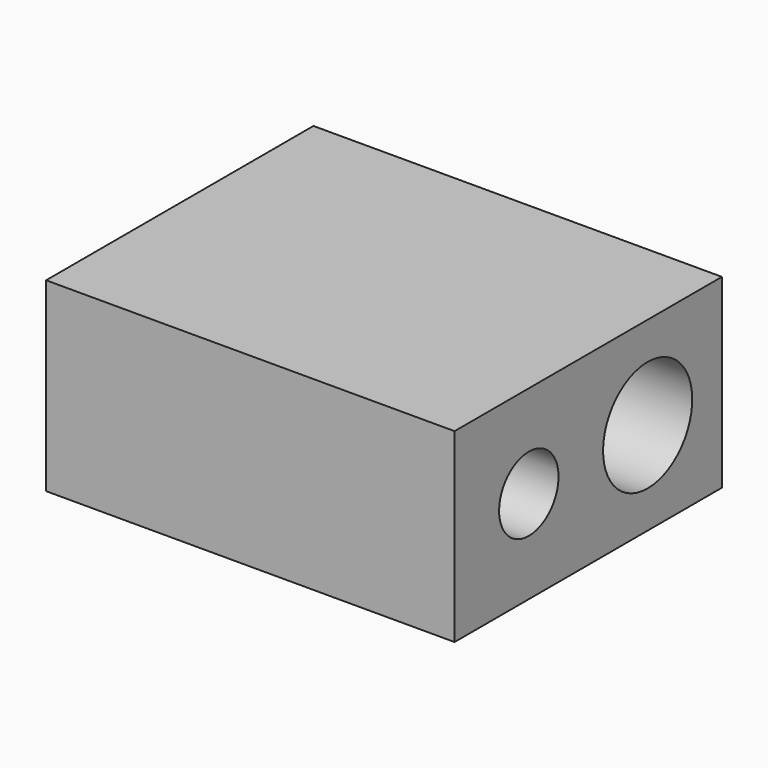
from build123d import *

# Parameters (mm, degrees)
CYLINDER006_R     = 3.5
CYLINDER006_DEPTH = 16
CYLINDER007_R     = 3
CYLINDER007_DEPTH = 9
CYLINDER008_R     = 1
CYLINDER008_DEPTH = 13
CYLINDER009_R     = 1
CYLINDER009_DEPTH = 13
CYLINDER003_R     = 2
CYLINDER003_DEPTH = 6
BOX003_W          = 22
BOX003_H          = 18
BOX003_DEPTH      = 10


with BuildPart() as cylinder006:
    # Cylinder006 → Cylinder006 (new body)
    with BuildSketch(Plane(origin=(0, 5, 5), x_dir=(0, 0, -1), z_dir=(1, 0, 0))):
        Circle(CYLINDER006_R)
    extrude(amount=CYLINDER006_DEPTH)


with BuildPart() as cylinder007:
    # Cylinder007 → Cylinder007 (new body)
    with BuildSketch(Plane(origin=(13, 13, 5), x_dir=(0, 0, -1), z_dir=(1, 0, 0))):
        Circle(CYLINDER007_R)
    extrude(amount=CYLINDER007_DEPTH)


with BuildPart() as cylinder008:
    # Cylinder008 → Cylinder008 (new body)
    with BuildSketch(Plane(origin=(0, 11, 5), x_dir=(0, 0, -1), z_dir=(1, 0, 0))):
        Circle(CYLINDER008_R)
    extrude(amount=CYLINDER008_DEPTH)


with BuildPart() as cylinder009:
    # Cylinder009 → Cylinder009 (new body)
    with BuildSketch(Plane(origin=(0, 15, 5), x_dir=(0, 0, -1), z_dir=(1, 0, 0))):
        Circle(CYLINDER009_R)
    extrude(amount=CYLINDER009_DEPTH)


with BuildPart() as body:
    # Cylinder003 → Cylinder003 (new body)
    with BuildSketch(Plane(origin=(16, 5, 5), x_dir=(0, 0, -1), z_dir=(1, 0, 0))):
        Circle(CYLINDER003_R)
    extrude(amount=CYLINDER003_DEPTH)

    # Fusion: union Cylinder006, Cylinder007, Cylinder008, Cylinder009
    add(cylinder006.part)
    add(cylinder007.part)
    add(cylinder008.part)
    add(cylinder009.part)


with BuildPart() as cut003:
    # Box003 → Box003 (new body)
    with BuildSketch(Plane.XY):
        with Locations((11, 9)):
            Rectangle(BOX003_W, BOX003_H)
    extrude(amount=BOX003_DEPTH)

    # Cut003: cut Body
    add(body.part, mode=Mode.SUBTRACT)


solid = cut003.part
